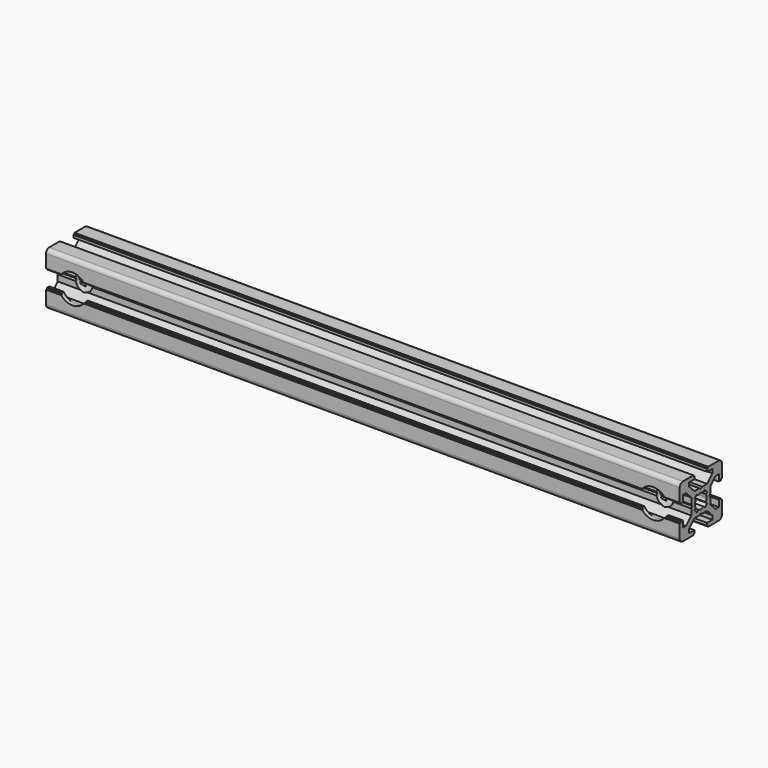
from build123d import *

# Parameters (mm, degrees)
PAD_DEPTH       = 240
SKETCH001_R     = 3.25
POCKET_DEPTH    = 21
SKETCH002_R     = 5.5
POCKET001_DEPTH = 2


with BuildPart() as part:
    # Sketch → Pad (new body)
    with BuildSketch(Plane.YZ):
        with BuildLine():
            Line((0, 4.1), (0.65, 4.5))
            Line((0.65, 4.5), (3, 4.5))
            Line((3, 4.5), (5.5, 7))
            Line((5.5, 7), (5.5, 8.5))
            Line((5.5, 8.5), (3, 8.5))
            Line((3, 8.5), (3, 9.5))
            Line((3, 9.5), (3.5, 9.5))
            Line((3.5, 9.5), (3.5, 10))
            Line((3.5, 10), (8.5, 10))
            ThreePointArc((10, 8.5), (9.56066, 9.56066), (8.5, 10))
            Line((10, 8.5), (10, 3.5))
            Line((10, 3.5), (9.5, 3.5))
            Line((9.5, 3.5), (9.5, 3))
            Line((9.5, 3), (8.5, 3))
            Line((8.5, 3), (8.5, 5.5))
            Line((8.5, 5.5), (7, 5.5))
            Line((7, 5.5), (4.5, 3))
            Line((4.5, 3), (4.5, 0.65))
            Line((4.5, 0.65), (4.1, 0))
            Line((4.5, -0.65), (4.1, 0))
            Line((4.5, -3), (4.5, -0.65))
            Line((7, -5.5), (4.5, -3))
            Line((8.5, -5.5), (7, -5.5))
            Line((8.5, -3), (8.5, -5.5))
            Line((9.5, -3), (8.5, -3))
            Line((9.5, -3.5), (9.5, -3))
            Line((10, -3.5), (9.5, -3.5))
            Line((10, -8.5), (10, -3.5))
            ThreePointArc((8.5, -10), (9.56066, -9.56066), (10, -8.5))
            Line((3.5, -10), (8.5, -10))
            Line((3.5, -9.5), (3.5, -10))
            Line((3, -9.5), (3.5, -9.5))
            Line((3, -8.5), (3, -9.5))
            Line((5.5, -8.5), (3, -8.5))
            Line((5.5, -7), (5.5, -8.5))
            Line((3, -4.5), (5.5, -7))
            Line((0.65, -4.5), (3, -4.5))
            Line((0, -4.1), (0.65, -4.5))
            Line((0, -4.1), (-0.65, -4.5))
            Line((-0.65, -4.5), (-3, -4.5))
            Line((-3, -4.5), (-5.5, -7))
            Line((-5.5, -7), (-5.5, -8.5))
            Line((-5.5, -8.5), (-3, -8.5))
            Line((-3, -8.5), (-3, -9.5))
            Line((-3, -9.5), (-3.5, -9.5))
            Line((-3.5, -9.5), (-3.5, -10))
            Line((-3.5, -10), (-8.5, -10))
            ThreePointArc((-10, -8.5), (-9.56066, -9.56066), (-8.5, -10))
            Line((-10, -8.5), (-10, -3.5))
            Line((-10, -3.5), (-9.5, -3.5))
            Line((-9.5, -3.5), (-9.5, -3))
            Line((-9.5, -3), (-8.5, -3))
            Line((-8.5, -3), (-8.5, -5.5))
            Line((-8.5, -5.5), (-7, -5.5))
            Line((-7, -5.5), (-4.5, -3))
            Line((-4.5, -3), (-4.5, -0.65))
            Line((-4.5, -0.65), (-4.1, 0))
            Line((-4.5, 0.65), (-4.1, 0))
            Line((-4.5, 3), (-4.5, 0.65))
            Line((-7, 5.5), (-4.5, 3))
            Line((-8.5, 5.5), (-7, 5.5))
            Line((-8.5, 3), (-8.5, 5.5))
            Line((-9.5, 3), (-8.5, 3))
            Line((-9.5, 3.5), (-9.5, 3))
            Line((-10, 3.5), (-9.5, 3.5))
            Line((-10, 8.5), (-10, 3.5))
            ThreePointArc((-8.5, 10), (-9.56066, 9.56066), (-10, 8.5))
            Line((-3.5, 10), (-8.5, 10))
            Line((-3.5, 9.5), (-3.5, 10))
            Line((-3, 9.5), (-3.5, 9.5))
            Line((-3, 8.5), (-3, 9.5))
            Line((-5.5, 8.5), (-3, 8.5))
            Line((-5.5, 7), (-5.5, 8.5))
            Line((-3, 4.5), (-5.5, 7))
            Line((-0.65, 4.5), (-3, 4.5))
            Line((0, 4.1), (-0.65, 4.5))
        make_face()
        with BuildLine():
            Line((1.340499, 2.401159), (1.923239, 2.983899))
            Line((1.923239, 2.983899), (2.983899, 1.923239))
            Line((2.983899, 1.923239), (2.401159, 1.340499))
            ThreePointArc((2.75, 0), (2.661361, 0.692573), (2.401159, 1.340499))
            ThreePointArc((2.401164, -1.34049), (2.661362, -0.692568), (2.75, 0))
            Line((2.983904, -1.92323), (2.401164, -1.34049))
            Line((1.923247, -2.983894), (2.983904, -1.92323))
            Line((1.340507, -2.401154), (1.923247, -2.983894))
            ThreePointArc((0, -2.75), (0.692577, -2.66136), (1.340507, -2.401154))
            ThreePointArc((-1.340507, -2.401154), (-0.692577, -2.66136), (0, -2.75))
            Line((-1.340507, -2.401154), (-1.923247, -2.983894))
            Line((-1.923247, -2.983894), (-2.983904, -1.92323))
            Line((-2.983904, -1.92323), (-2.401164, -1.34049))
            ThreePointArc((-2.75, 0), (-2.661362, -0.692568), (-2.401164, -1.34049))
            ThreePointArc((-2.401159, 1.340499), (-2.661361, 0.692572), (-2.75, 0))
            Line((-2.983899, 1.923239), (-2.401159, 1.340499))
            Line((-1.923239, 2.983899), (-2.983899, 1.923239))
            Line((-1.340499, 2.401159), (-1.923239, 2.983899))
            ThreePointArc((0, 2.75), (-0.692573, 2.661361), (-1.340499, 2.401159))
            ThreePointArc((1.340499, 2.401159), (0.692573, 2.661361), (0, 2.75))
        make_face(mode=Mode.SUBTRACT)
    extrude(amount=PAD_DEPTH)

    # Sketch001 → Pocket (cut)
    with BuildSketch(Plane.XZ.offset(10)):
        with Locations((10, 0)):
            Circle(SKETCH001_R)
        with Locations((230, 0)):
            Circle(SKETCH001_R)
    extrude(amount=-POCKET_DEPTH, mode=Mode.SUBTRACT)

    # Sketch002 → Pocket001 (cut)
    with BuildSketch(Plane.XZ.offset(10)):
        with Locations((10, 0)):
            Circle(SKETCH002_R)
        with Locations((230, 0)):
            Circle(SKETCH002_R)
    extrude(amount=-POCKET001_DEPTH, mode=Mode.SUBTRACT)


solid = part.part
